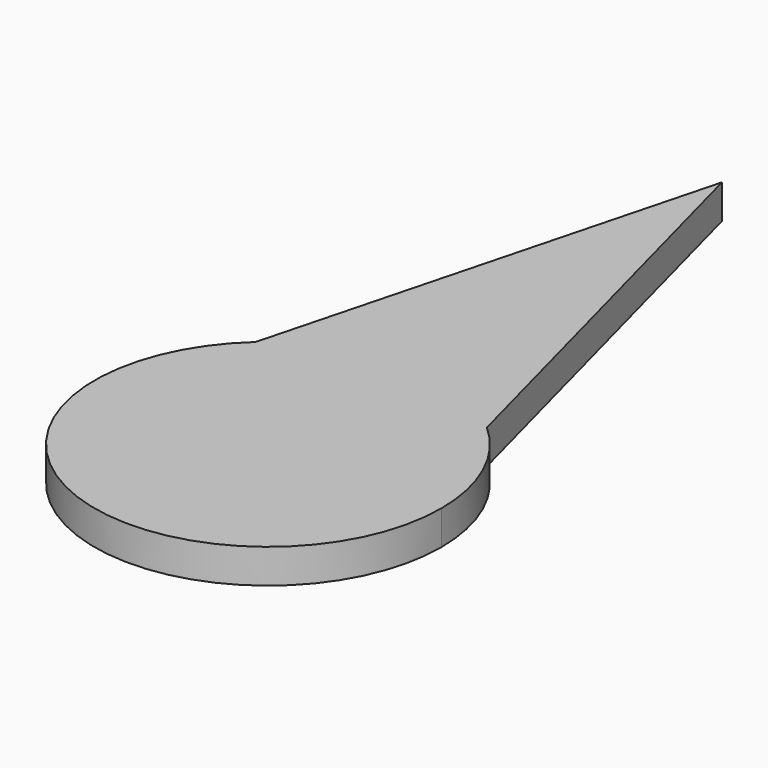
from build123d import *

# Parameters (mm, degrees)
F1_DEPTH = 3


with BuildPart() as f1:
    # F0 (on Top) → F1 (new body)
    with BuildSketch(Plane.XY):
        with BuildLine():
            ThreePointArc((-10.149308, 11.32535), (-6.201818, -13.885585), (15.20763, 0))
            ThreePointArc((15.20763, 0), (13.885585, 6.201818), (10.149308, 11.32535))
            ThreePointArc((10.149308, 11.32535), (0, 15.20763), (-10.149308, 11.32535))
        make_face()
        with BuildLine():
            ThreePointArc((-10.149308, 11.32535), (0, 15.20763), (10.149308, 11.32535))
            Line((10.149308, 11.32535), (0, 49.780823))
            Line((0, 49.780823), (-10.149308, 11.32535))
        make_face()
    extrude(amount=F1_DEPTH)


solid = f1.part
